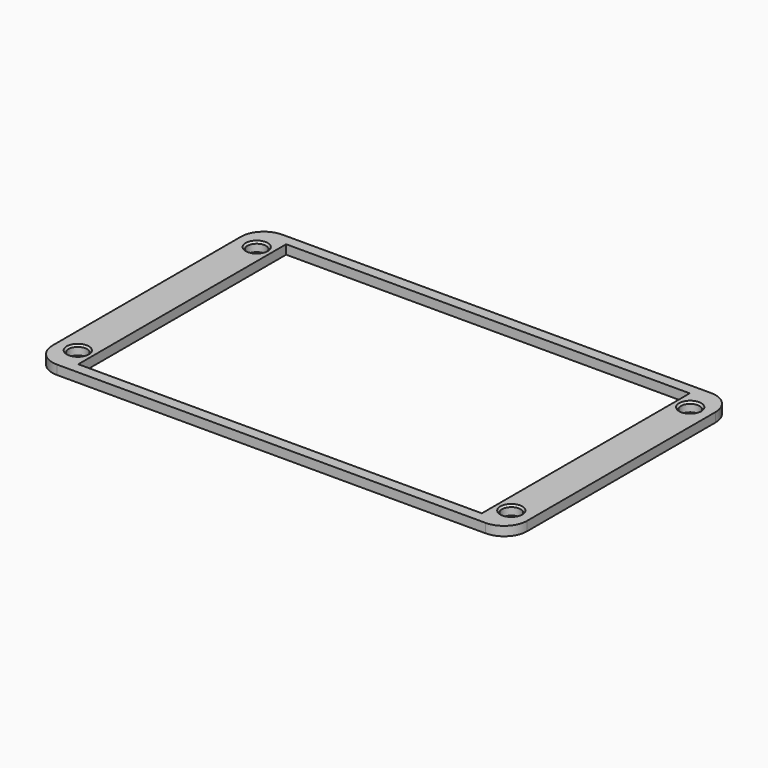
from build123d import *

# Parameters (mm, degrees)
F0_W     = 103.023604
F0_H     = 61.1
F0_R     = 2
F1_DEPTH = 2
F2_R     = 5
F3_SIZE  = 0.4


with BuildPart() as f1:
    # F0 (on Top) → F1 (new body)
    with BuildSketch(Plane.XY):
        Rectangle(F0_W, F0_H)
        with Locations((-47.05, -24.27)):
            Circle(F0_R, mode=Mode.SUBTRACT)
        with BuildLine():
            ThreePointArc((49.05, -24.27), (47.05, -26.27), (45.05, -24.27))
            ThreePointArc((45.05, -24.27), (47.05, -22.27), (49.05, -24.27))
        make_face(mode=Mode.SUBTRACT)
        with Locations((-47.05, 24.27)):
            Circle(F0_R, mode=Mode.SUBTRACT)
        Polygon((43.8, -28.2), (-43.8, -28.2), (-43.8, 28.2), (43.8, 28.2), (43.8, -24.27), align=None, mode=Mode.SUBTRACT)
        with Locations((47.05, 24.27)):
            Circle(F0_R, mode=Mode.SUBTRACT)
    extrude(amount=F1_DEPTH)

    # F2
    f2_edges = [f1.edges().sort_by_distance(p)[0] for p in [
        (51.511802, -30.55, 1),
        (51.511802, 30.55, 1),
        (-51.511802, -30.55, 1),
        (-51.511802, 30.55, 1),
    ]]
    fillet(f2_edges, radius=F2_R)

    # F3
    f3_edges = [f1.edges().sort_by_distance(p)[0] for p in [
        (45.05, -24.27, 2),
        (45.05, 24.27, 2),
        (-49.05, 24.27, 2),
        (-49.05, -24.27, 2),
    ]]
    chamfer(f3_edges, length=F3_SIZE)


solid = f1.part
